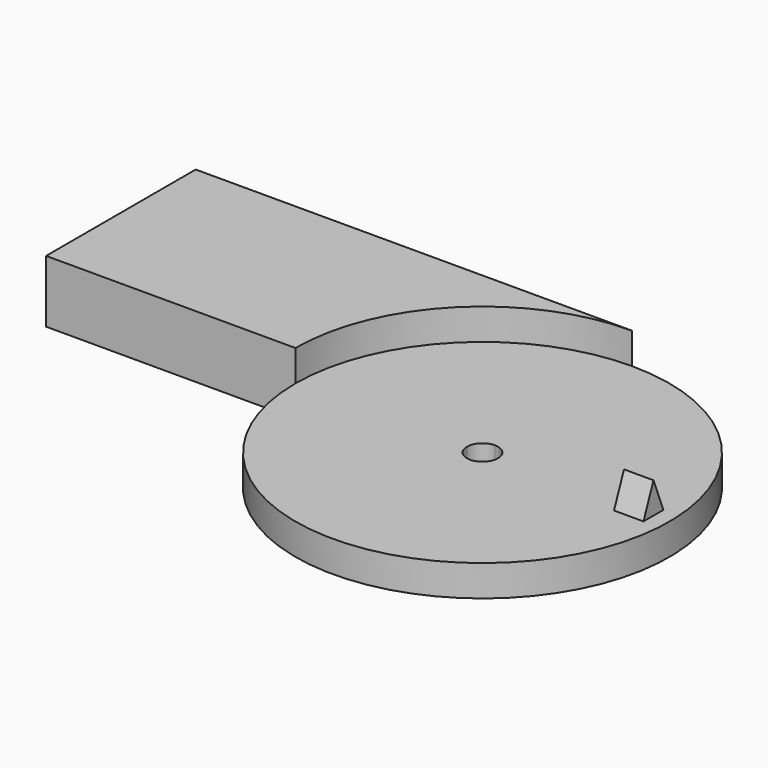
from build123d import *

# Parameters (mm, degrees)
F1_DEPTH = 10
F2_DEPTH = 5
F3_W     = 4.9271763038
F3_H     = 2
F4_DEPTH = 5
F6_DEPTH = 4.9271763038
F7_DEPTH = 0.2
F8_DEPTH = 0.2


with BuildPart() as f1:
    # F0 (on Top) → F1 (new body)
    with BuildSketch(Plane.XY):
        with BuildLine():
            Line((-35, -15), (5, -15))
            ThreePointArc((5, -15), (13.7867965644, 6.2132034356), (35, 15))
            Line((35, 15), (-35, 15))
            Line((-35, 15), (-35, -15))
        make_face()
    extrude(amount=F1_DEPTH)

    # F0 (on Top) → F2 (join)
    with BuildSketch(Plane.XY):
        with BuildLine():
            Line((5, -15), (7.5, -15))
            ThreePointArc((7.5, -15), (15.5545635174, 4.4454364826), (35, 12.5))
            Line((35, 12.5), (35, 15))
            ThreePointArc((35, 15), (13.7867965644, 6.2132034356), (5, -15))
        make_face()
        with BuildLine():
            Line((7.5, -15), (12.5, -15))
            ThreePointArc((12.5, -15), (19.0900974233, 0.9099025767), (35, 7.5))
            Line((35, 7.5), (35, 12.5))
            ThreePointArc((35, 12.5), (15.5545635174, 4.4454364826), (7.5, -15))
        make_face()
        with BuildLine():
            ThreePointArc((62.5, -15), (35, -42.5), (7.5, -15))
            Line((7.5, -15), (5, -15))
            ThreePointArc((5, -15), (35, -45), (65, -15))
            ThreePointArc((65, -15), (56.2132034356, 6.2132034356), (35, 15))
            Line((35, 15), (35, 12.5))
            ThreePointArc((35, 12.5), (54.4454364826, 4.4454364826), (62.5, -15))
        make_face()
        with BuildLine():
            ThreePointArc((57.5, -15), (35, -37.5), (12.5, -15))
            Line((12.5, -15), (7.5, -15))
            ThreePointArc((7.5, -15), (35, -42.5), (62.5, -15))
            ThreePointArc((62.5, -15), (54.4454364826, 4.4454364826), (35, 12.5))
            Line((35, 12.5), (35, 7.5))
            ThreePointArc((35, 7.5), (50.9099025767, 0.9099025767), (57.5, -15))
        make_face()
        with BuildLine():
            Line((12.5, -15), (32.5, -15))
            ThreePointArc((32.5, -15), (33.232233047, -13.232233047), (35, -12.5))
            Line((35, -12.5), (35, 7.5))
            ThreePointArc((35, 7.5), (19.0900974233, 0.9099025767), (12.5, -15))
        make_face()
        with BuildLine():
            ThreePointArc((37.5, -15), (35, -17.5), (32.5, -15))
            Line((32.5, -15), (12.5, -15))
            ThreePointArc((12.5, -15), (35, -37.5), (57.5, -15))
            ThreePointArc((57.5, -15), (50.9099025767, 0.9099025767), (35, 7.5))
            Line((35, 7.5), (35, -12.5))
            ThreePointArc((35, -12.5), (36.767766953, -13.232233047), (37.5, -15))
        make_face()
    extrude(amount=F2_DEPTH)

    # F3 (on face) → F4 (join, through all)
    with BuildSketch(Plane.XY.offset(5)):
        with Locations((59.9635881519, -14)):
            Rectangle(F3_W, F3_H)
        with Locations((59.9635881519, -16)):
            Rectangle(F3_W, F3_H)
    extrude(amount=F4_DEPTH)

    # F5 (on face) → F6 (cut, through all)
    with BuildSketch(Plane.YZ.offset(62.4271763038)):
        Polygon((-17, 10), (-17, 5), (-15, 10), align=None)
        Polygon((-13, 10), (-15, 10), (-13, 5), align=None)
    extrude(amount=-F6_DEPTH, mode=Mode.SUBTRACT)

    # F7 (cut): a face of the model
    f7_faces = [f1.faces().sort_by_distance(p)[0] for p in [
        (62.4271763038, -15, 6.6666666667),
    ]]
    extrude(f7_faces, amount=F7_DEPTH, mode=Mode.SUBTRACT)

    # F8 (cut): a face of the model
    f8_faces = [f1.faces().sort_by_distance(p)[0] for p in [
        (57.5, -15, 6.6666666667),
    ]]
    extrude(f8_faces, amount=-F8_DEPTH, mode=Mode.SUBTRACT)


solid = f1.part
